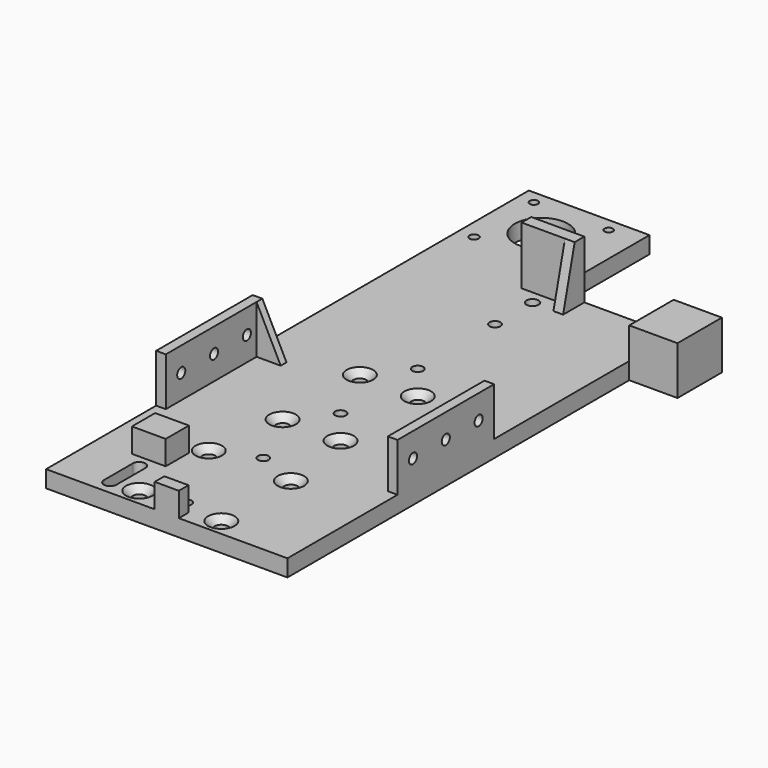
from build123d import *

# Parameters (mm, degrees)
SKETCH_W         = 100
SKETCH_H         = 200
PAD_DEPTH        = 7
HOLE_D           = 5.5
HOLE_CSINK_D     = 11
HOLE_CSINK_ANGLE = 90
SKETCH002_R      = 2.25
HOLE001_DEPTH    = 7.001
SKETCH003_W      = 10
SKETCH003_H      = 5
PAD001_DEPTH     = 10
SKETCH005_W      = 4
SKETCH005_H      = 50
PAD002_DEPTH     = 20
PAD009_DEPTH     = 3
PAD010_DEPTH     = 3
SKETCH019_W      = 13.993252
SKETCH019_H      = 12
PAD011_DEPTH     = 10
SKETCH020_R      = 2
POCKET001_DEPTH  = 14
SKETCH022_W      = 18
SKETCH022_H      = 31
PAD012_DEPTH     = 5
PAD013_DEPTH     = 4
SKETCH024_R      = 2.5
POCKET003_DEPTH  = 7
SKETCH026_W      = 23
SKETCH026_H      = 20
PAD014_DEPTH     = 20
SKETCH034_R      = 2.1
POCKET008_DEPTH  = 120
SKETCH035_W      = 50
SKETCH035_H      = 50
SKETCH035_R      = 11
SKETCH035_R_2    = 1.720547
SKETCH035_R_3    = 1.714858
SKETCH035_R_4    = 2.211749
SKETCH035_R_5    = 1.868355
PAD015_DEPTH     = 7
POCKET_DEPTH     = 7


with BuildPart() as part:
    # Sketch → Pad (new body)
    with BuildSketch(Plane.XY):
        with Locations((0, 100)):
            Rectangle(SKETCH_W, SKETCH_H)
    extrude(amount=PAD_DEPTH)

    # Hole (through all)
    with Locations(Plane.XY.offset(7)):
        with Locations((17, 7), (17, 43), (-17, 43), (-17, 7), (12, 115), (12, 75), (-12, 115), (-12, 75)):
            CounterSinkHole(HOLE_D / 2, HOLE_CSINK_D / 2, counter_sink_angle=HOLE_CSINK_ANGLE)

    # Sketch002 (on Face5 of Hole) → Hole001 (cut, through all)
    with BuildSketch(Plane.XY.offset(7)):
        with Locations((0, 10)):
            Circle(SKETCH002_R)
        with Locations((0, 50)):
            Circle(SKETCH002_R)
        with Locations((0, 90)):
            Circle(SKETCH002_R)
        with Locations((0, 130)):
            Circle(SKETCH002_R)
        with Locations((0, 170)):
            Circle(SKETCH002_R)
    extrude(amount=-HOLE001_DEPTH, mode=Mode.SUBTRACT)

    # Sketch003 (on Face5 of Hole001) → Pad001 (join)
    with BuildSketch(Plane.XY.offset(7)):
        with Locations((-2e-06, 2.5)):
            Rectangle(SKETCH003_W, SKETCH003_H)
    extrude(amount=PAD001_DEPTH)

    # Sketch005 (on DatumPlane) → Pad002 (join)
    with BuildSketch(Plane.XY.offset(7)):
        with Locations((-48, 82)):
            Rectangle(SKETCH005_W, SKETCH005_H)
        with Locations((48, 82)):
            Rectangle(SKETCH005_W, SKETCH005_H)
    extrude(amount=PAD002_DEPTH)

    # Sketch017 (on DatumPlane) → Pad009 (join)
    with BuildSketch(Plane(origin=(0, 107, 0), x_dir=(-1, 0, 0), z_dir=(0, 1, 0))):
        Polygon((46, 7), (46, 27), (36, 7), align=None)
        Polygon((-46, 27), (-46, 7), (-36, 7), align=None)
    extrude(amount=-PAD009_DEPTH)

    # Sketch018 (on DatumPlane) → Pad010 (join)
    with BuildSketch(Plane(origin=(0, 107, 0), x_dir=(-1, 0, 0), z_dir=(0, 1, 0))):
        Polygon((-46, 7), (-46, 27), (-36, 7), align=None)
        Polygon((46, 7), (46, 26.679939), (36, 7), align=None)
    extrude(amount=-PAD010_DEPTH)

    # Sketch019 (on Face5 of Pad010) → Pad011 (join)
    with BuildSketch(Plane.XY.offset(7)):
        with Locations((-28.003374, 31.717157)):
            Rectangle(SKETCH019_W, SKETCH019_H)
    extrude(amount=PAD011_DEPTH)

    # Sketch020 (on DatumPlane) → Pocket001 (cut)
    with BuildSketch(Plane.XZ.offset(-25.717157)):
        with Locations((28, 12)):
            Circle(SKETCH020_R)
    extrude(amount=-POCKET001_DEPTH, mode=Mode.SUBTRACT)

    # Sketch022 → Pad012 (join)
    with BuildSketch(Plane(origin=(0, 200, 0), x_dir=(-1, 0, 0), z_dir=(0, 1, 0))):
        with Locations((0, 15.5)):
            Rectangle(SKETCH022_W, SKETCH022_H)
    extrude(amount=-PAD012_DEPTH)

    # Sketch023 (on DatumPlane) → Pad013 (join)
    with BuildSketch(Plane.YZ.offset(9)):
        Polygon((200, 7), (189, 7), (195, 31), (200, 31), align=None)
    extrude(amount=PAD013_DEPTH)

    # Sketch024 (on Face5 of Pad013) → Pocket003 (cut)
    with BuildSketch(Plane.XY.offset(7)):
        with Locations((0, 189.428879)):
            Circle(SKETCH024_R)
    extrude(amount=-POCKET003_DEPTH, mode=Mode.SUBTRACT)

    # Sketch026 (on DatumPlane) → Pad014 (join)
    with BuildSketch(Plane.YZ.offset(50)):
        with Locations((188.5, 10)):
            Rectangle(SKETCH026_W, SKETCH026_H)
    extrude(amount=PAD014_DEPTH)

    # Sketch034 (on DatumPlane) → Pocket008 (cut)
    with BuildSketch(Plane(origin=(-50, 0, 0), x_dir=(0, -1, 0), z_dir=(-1, 0, 0))):
        with Locations((-99, 17)):
            Circle(SKETCH034_R)
        with Locations((-82, 17)):
            Circle(SKETCH034_R)
        with Locations((-65, 17)):
            Circle(SKETCH034_R)
    extrude(amount=-POCKET008_DEPTH, mode=Mode.SUBTRACT)

    # Sketch035 (on DatumPlane) → Pad015 (join)
    with BuildSketch(Plane.XY.offset(7)):
        with Locations((-25, 225)):
            Rectangle(SKETCH035_W, SKETCH035_H)
        with Locations((-28, 229)):
            Circle(SKETCH035_R, mode=Mode.SUBTRACT)
        with Locations((-43.5, 244.5)):
            Circle(SKETCH035_R_2, mode=Mode.SUBTRACT)
        with Locations((-12.5, 244.5)):
            Circle(SKETCH035_R_3, mode=Mode.SUBTRACT)
        with Locations((-12.5, 213.5)):
            Circle(SKETCH035_R_4, mode=Mode.SUBTRACT)
        with Locations((-43.5, 213.5)):
            Circle(SKETCH035_R_5, mode=Mode.SUBTRACT)
    extrude(amount=-PAD015_DEPTH)

    # Sketch036 (on DatumPlane) → Pocket (cut)
    with BuildSketch(Plane.XY.offset(7)):
        with BuildLine():
            ThreePointArc((-25.4, 20.702306), (-28, 23.302306), (-30.6, 20.702306))
            Line((-30.6, 20.702306), (-30.6, 5.702306))
            ThreePointArc((-30.6, 5.702306), (-28, 3.102306), (-25.4, 5.702306))
            Line((-25.4, 5.702306), (-25.4, 20.702306))
        make_face()
    extrude(amount=-POCKET_DEPTH, mode=Mode.SUBTRACT)


solid = part.part
